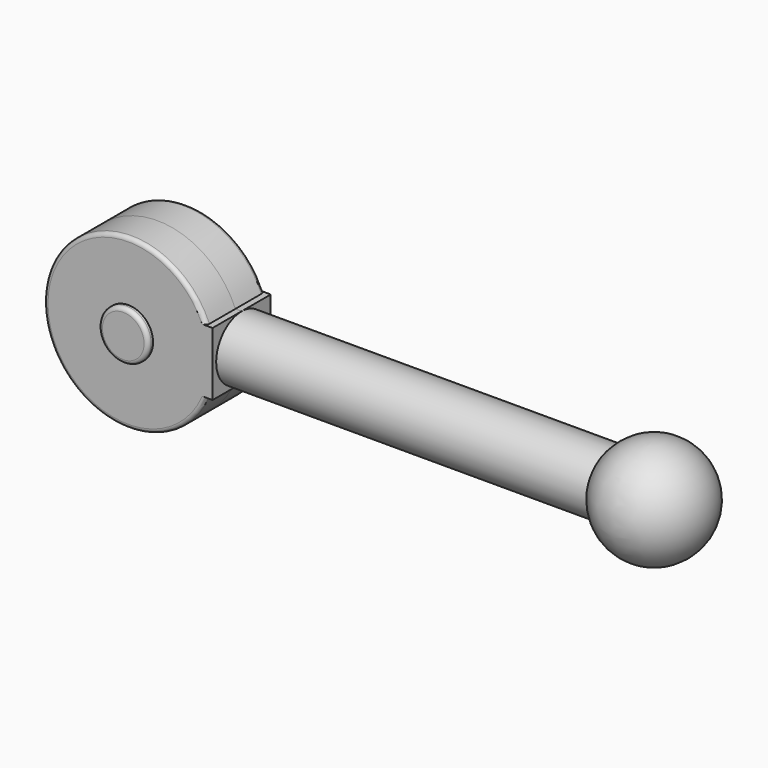
from build123d import *

# Parameters (mm, degrees)
F0_R     = 0.81
F1_DEPTH = 10.5
F3_DEPTH = 0.925
F5_DEPTH = 0.925
F7_R     = 0.63
F8_DEPTH = 0.16
F6_R     = 0.63
F9_DEPTH = 0.16
F10_R    = 0.1


with BuildPart() as f1:
    # F0 (on Right) → F1 (new body)
    with BuildSketch(Plane.YZ):
        Circle(F0_R)
    extrude(amount=F1_DEPTH)

    # F2 (on Front) → F3 (join)
    with BuildSketch(Plane.XZ):
        with BuildLine():
            Line((0, 0.811792), (-0.159548, 0.811792))
            ThreePointArc((-0.159548, 0.811792), (-4.289996, -0.00439), (-0.156242, -0.803658))
            Line((-0.156242, -0.803658), (0, -0.803658))
            Line((0, -0.803658), (0, 0.811792))
        make_face()
    extrude(amount=F3_DEPTH)

    # F4 (on face) → F5 (join)
    with BuildSketch(Plane(origin=(0, 0, 0), x_dir=(-1, 0, 0), z_dir=(0, 1, 0))):
        with BuildLine():
            Line((0, -0.803658), (0.156242, -0.803658))
            ThreePointArc((0.156242, -0.803658), (4.289996, -0.00439), (0.159548, 0.811792))
            Line((0.159548, 0.811792), (0, 0.810896))
            Line((0, 0.810896), (0, 0.81))
            Line((0, 0.81), (0, -0.803658))
        make_face()
    extrude(amount=F5_DEPTH)

    # F7 (on face) → F8 (join)
    with BuildSketch(Plane.XZ.offset(0.925)):
        with Locations((-2.145, 0)):
            Circle(F7_R)
    extrude(amount=F8_DEPTH)

    # F6 (on face) → F9 (join)
    with BuildSketch(Plane(origin=(0, 0.925, 0), x_dir=(-1, 0, 0), z_dir=(0, 1, 0))):
        with Locations((2.145, 0)):
            Circle(F6_R)
    extrude(amount=F9_DEPTH)

    # F10
    f10_edges = [f1.edges().sort_by_distance(p)[0] for p in [
        (-1.515, 1.085, 0),
        (-2.775, -1.085, 0),
        (-4.289996, -0.925, -0.00439),
        (-4.289996, 0.925, -0.00439),
    ]]
    fillet(f10_edges, radius=F10_R)

    # F11 (on face) → F12 (revolve)
    with BuildSketch(Plane.YZ.offset(10.5)):
        with BuildLine():
            Line((0, 0.81), (0, 1.35))
            ThreePointArc((0, 1.35), (-1.35, 0), (0, -1.35))
            Line((0, -1.35), (0, -0.81))
            ThreePointArc((0, -0.81), (-0.81, 0), (0, 0.81))
        make_face()
    revolve(axis=Axis((10.5, 0, 0), (0, 0, -1)))


solid = f1.part
